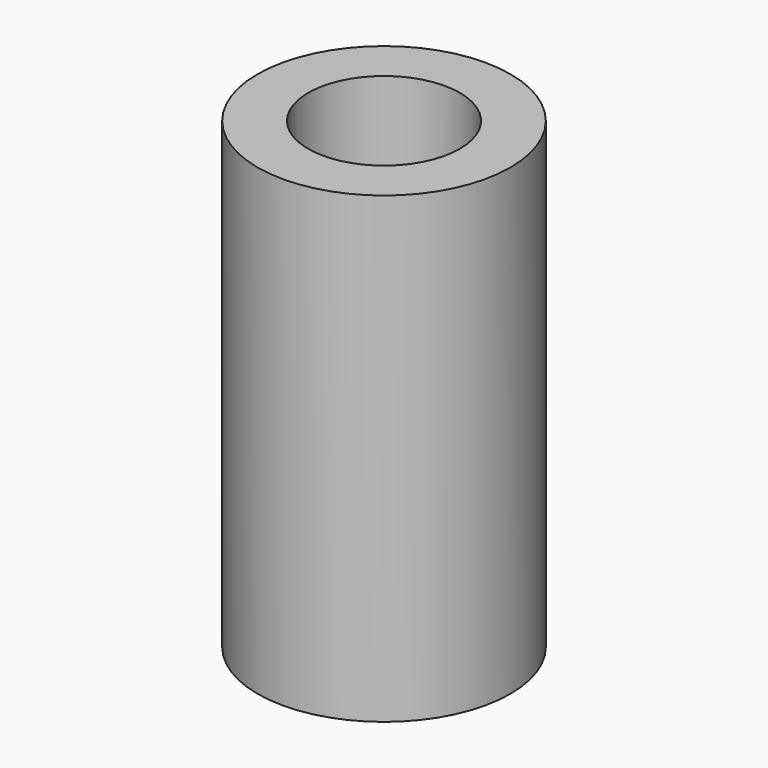
from build123d import *

# Parameters (mm, degrees)
SKETCH_R   = 3
SKETCH_R_2 = 1.8
PAD_DEPTH  = 11


with BuildPart() as part:
    # Sketch → Pad (new body)
    with BuildSketch(Plane.XY):
        Circle(SKETCH_R)
        Circle(SKETCH_R_2, mode=Mode.SUBTRACT)
    extrude(amount=PAD_DEPTH)


solid = part.part
